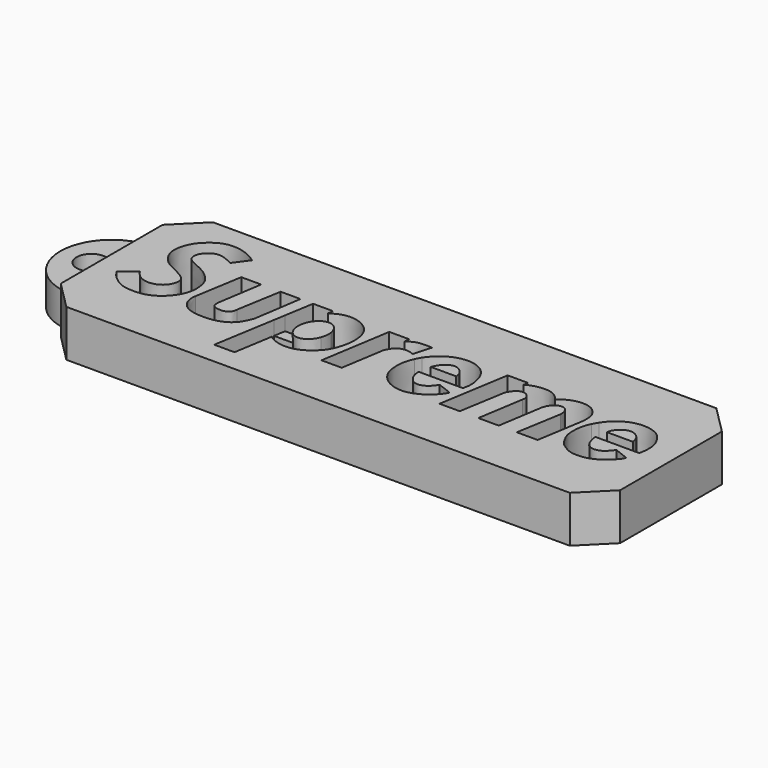
from build123d import *

# Parameters (mm, degrees)
F1_DEPTH = 5
F0_R     = 1.5875
F2_DEPTH = 3.5
F3_SIZE  = 3


with BuildPart() as f1:
    # F0 (on Top) → F1 (new body)
    with BuildSketch(Plane.XY):
        Polygon((30.01015342, 15.61703031), (-29.98984658, 15.61703031), (-29.98984658, 11.29203031), (-29.98984658, 0.29203031), (-29.98984658, -4.03296969), (30.01015342, -4.03296969), align=None)
        with BuildLine():
            Line((-19.7559818625, 4.2211241089), (-18.9126729965, 9.3238521367))
            Line((-18.9126729965, 9.3238521367), (-16.7780928314, 9.3238521367))
            Line((-16.7780928314, 9.3238521367), (-17.5221320242, 4.5804767869))
            add(Edge.make_bspline(
                [(-17.5221320242, 4.5804767869), (-17.5310005896, 4.4474616015), (-17.5490219684, 4.1771679367), (-17.4094162083, 3.6929434662), (-16.9054830373, 3.6216166248), (-16.3628218646, 3.5393000931), (-15.8559662748, 3.7293323109), (-15.5556535676, 4.0775659402), (-15.5231095178, 4.3743110873), (-15.5067695305, 4.5233033597)],
                knots=[0, 0, 0, 0, 0.1344949603, 0.273300643, 0.4154449369, 0.5722903555, 0.7232976915, 0.8610710027, 1, 1, 1, 1], degree=3))
            Line((-15.5067695305, 4.5233033597), (-14.6920476109, 9.3238521367))
            Line((-14.6920476109, 9.3238521367), (-12.5664239749, 9.3238521367))
            Line((-12.5664239749, 9.3238521367), (-13.3436731994, 4.1697453707))
            add(Edge.make_bspline(
                [(-19.7559818625, 4.2211241089), (-19.7889295298, 3.9617250882), (-19.8632317094, 3.3767394367), (-19.178476494, 2.1173110297), (-17.6955983041, 1.6876424853), (-15.883110609, 1.6972696746), (-14.5559279067, 2.2367010153), (-13.7930255492, 3.0260267128), (-13.4972530775, 3.7788446173), (-13.3436731994, 4.1697453707)],
                knots=[0, 0, 0, 0, 0.1142779606, 0.2577148021, 0.4119440645, 0.5823504416, 0.7312470887, 0.8604500306, 1, 1, 1, 1], degree=3))
        make_face(mode=Mode.SUBTRACT)
        with BuildLine():
            Line((-11.7218147786, 6.2031908892), (-11.2054096535, 9.3149580061))
            Line((-11.2054096535, 9.3149580061), (-9.065986611, 9.3149580061))
            Line((-9.065986611, 9.3149580061), (-9.1385124251, 8.7301135063))
            add(Edge.make_bspline(
                [(-9.1385124251, 8.7301135063), (-8.8236452775, 8.9304496696), (-8.1567491391, 9.3547664477), (-6.6866777159, 9.4900332895), (-5.2713454219, 8.8116125234), (-4.5204346162, 7.8159617592), (-4.3183804761, 6.8015895363), (-4.3321307749, 6.2031908892)],
                knots=[0, 0, 0, 0, 0.0871601103, 0.1846071953, 0.2848683373, 0.3738423687, 0.4776306039, 0.4776306039, 0.4776306039, 0.4776306039], degree=3))
            add(Edge.make_bspline(
                [(-4.3321307749, 6.2031908892), (-4.3413836178, 5.8005168239), (-4.4061257779, 5.3741900546), (-4.5094260219, 4.9719397925)],
                knots=[0.4776306039, 0.4776306039, 0.4776306039, 0.4776306039, 0.547471722, 0.547471722, 0.547471722, 0.547471722], degree=3))
            add(Edge.make_bspline(
                [(-4.5094260219, 4.9719397925), (-4.578854366, 4.7015864171), (-4.8562108266, 3.8729026465), (-5.5886153889, 2.8359847903), (-7.551868062, 1.5221736617), (-9.7054803711, 2.0589796048), (-10.0468899005, 2.4020709027), (-10.1664531976, 2.5222231634)],
                knots=[0.547471722, 0.547471722, 0.547471722, 0.547471722, 0.5944121066, 0.6973835086, 0.8202048138, 0.9370348411, 1, 1, 1, 1], degree=3))
            Line((-10.1664531976, 2.5222231634), (-10.850998573, -1.6598947113))
            Line((-10.850998573, -1.6598947113), (-13.0267124623, -1.6598947113))
            Line((-13.0267124623, -1.6598947113), (-11.926143815, 4.9719397925))
            Line((-11.926143815, 4.9719397925), (-11.7218147786, 6.2031908892))
        make_face(mode=Mode.SUBTRACT)
        with BuildLine():
            Line((-4.246388562, 1.7452507745), (-3.0366650317, 9.3174511567))
            Line((-3.0366650317, 9.3174511567), (-0.8939962136, 9.3174511567))
            Line((-0.8939962136, 9.3174511567), (-0.9469885263, 8.7815709412))
            add(Edge.make_bspline(
                [(-0.9469885263, 8.7815709412), (-0.6587005741, 8.9709471605), (-0.0193125335, 9.3909608588), (0.9984306003, 9.3504412574), (1.5572926429, 9.3281911729)],
                knots=[0, 0, 0, 0, 0.450881052, 1, 1, 1, 1], degree=3))
            Line((1.5572926429, 9.3281911729), (1.0044078742, 7.4051138987))
            add(Edge.make_bspline(
                [(-1.3337034034, 6.4028999768), (-1.199541322, 6.7075380208), (-0.9288259321, 7.3222438025), (0.1264507287, 7.7499450537), (0.7167563472, 7.5180934557), (1.0044078742, 7.4051138987)],
                knots=[0, 0, 0, 0, 0.3349866791, 0.6759439697, 1, 1, 1, 1], degree=3))
            Line((-1.3337034034, 6.4028999768), (-2.0737985615, 1.7452507745))
            Line((-2.0737985615, 1.7452507745), (-4.246388562, 1.7452507745))
        make_face(mode=Mode.SUBTRACT)
        with BuildLine():
            add(Edge.make_bspline(
                [(1.7034924822, 6.7907180637), (1.5505594609, 6.4542956353), (1.2818548268, 5.7069911533), (1.2631676732, 4.5386014627), (1.488966943, 3.3664040492), (2.2143774175, 2.4399969182), (3.14057677, 1.822994674), (4.5113398224, 1.5392180628), (5.7151325752, 1.9007362845), (6.7741345581, 2.4913511368), (7.6186552962, 3.4782363972), (7.7436194599, 3.7723184303), (7.7888928354, 3.8788616657)],
                knots=[0.4936803865, 0.4936803865, 0.4936803865, 0.4936803865, 0.5453329856, 0.5974392326, 0.649673931, 0.7009975118, 0.7516486796, 0.8077064771, 0.8611224147, 0.9151057234, 0.9692435787, 1, 1, 1, 1], degree=3))
            add(Edge.make_bspline(
                [(2.0340674977, 7.4051138987), (1.9103564459, 7.2129378872), (1.8028769892, 7.0093443414), (1.7034924822, 6.7907180637)],
                knots=[0.460113613, 0.460113613, 0.460113613, 0.460113613, 0.4936803865, 0.4936803865, 0.4936803865, 0.4936803865], degree=3))
            add(Edge.make_bspline(
                [(8.0737392106, 7.4051138987), (8.0027895058, 7.633177258), (7.7859014039, 8.1488731519), (7.112078445, 8.8809556902), (6.2046090052, 9.2898407369), (5.145449992, 9.4142437356), (3.8251847183, 9.0791156656), (2.9101472975, 8.4192654053), (2.3351097975, 7.8426919507), (2.0877432469, 7.4884952235), (2.0340674977, 7.4051138987)],
                knots=[0.108541767, 0.108541767, 0.108541767, 0.108541767, 0.1430419216, 0.1925664303, 0.240094957, 0.2895677079, 0.3453156833, 0.3966102298, 0.4455496618, 0.460113613, 0.460113613, 0.460113613, 0.460113613], degree=3))
            add(Edge.make_bspline(
                [(8.2224255401, 6.7907180637), (8.2013997857, 6.9062264407), (8.1553628662, 7.1182158715), (8.1013775771, 7.3162721096), (8.0737392106, 7.4051138987)],
                knots=[0.0793934975, 0.0793934975, 0.0793934975, 0.0793934975, 0.0951022761, 0.108541767, 0.108541767, 0.108541767, 0.108541767], degree=3))
            add(Edge.make_bspline(
                [(8.1494702026, 5.2009769715), (8.2150451349, 5.4627924757), (8.3329471294, 5.9335298305), (8.2695883102, 6.5316217708), (8.2224255401, 6.7907180637)],
                knots=[0, 0, 0, 0, 0.0441572107, 0.0793934975, 0.0793934975, 0.0793934975, 0.0793934975], degree=3))
            Line((8.1494702026, 5.2009769715), (3.4259120002, 5.2009769715))
            add(Edge.make_bspline(
                [(6.2504312955, 4.4678039849), (6.186897844, 4.3535234123), (6.034007923, 4.078513204), (5.4278956061, 3.4531812799), (4.4533826607, 3.2802800834), (3.8143995868, 3.8450217274), (3.4258927645, 4.5871637723), (3.4259059336, 5.0073890957), (3.4259120002, 5.2009769715)],
                knots=[0, 0, 0, 0, 0.1286160508, 0.3095077853, 0.4960220718, 0.6707688534, 0.8483309911, 1, 1, 1, 1], degree=3))
            Line((6.2504312955, 4.4678039849), (7.7888928354, 3.8788616657))
        make_face(mode=Mode.SUBTRACT)
        with BuildLine():
            Line((8.3989575505, 1.7699922901), (9.6397940069, 9.3509936705))
            Line((9.6397940069, 9.3509936705), (11.8325054646, 9.3509936705))
            Line((11.8325054646, 9.3509936705), (11.7491645184, 8.8511627697))
            add(Edge.make_bspline(
                [(11.7491645184, 8.8511627697), (11.9127645764, 8.9485915396), (12.2978049063, 9.1778946715), (13.4080398698, 9.4023060826), (14.4959329891, 9.3288756759), (15.1511056428, 8.826367526), (15.3479677066, 8.5457867446), (15.4344663024, 8.4225032479)],
                knots=[0, 0, 0, 0, 0.1756360393, 0.4133675705, 0.6476570471, 0.8451851511, 1, 1, 1, 1], degree=3))
            add(Edge.make_bspline(
                [(15.4344663024, 8.4225032479), (15.6672242716, 8.6010376163), (16.1827727931, 8.9964832803), (17.4719077097, 9.4727070493), (18.7897887717, 9.2040809904), (19.2712005277, 8.6815915751), (19.7287034972, 8.1312674251), (19.7698817705, 7.0965753583), (19.7333274949, 6.8208804167), (19.719466567, 6.7163403146)],
                knots=[0, 0, 0, 0, 0.1473033446, 0.3262703389, 0.4992878411, 0.6246494733, 0.7531040491, 0.906380118, 1, 1, 1, 1], degree=3))
            Line((19.719466567, 6.7163403146), (18.920570612, 1.7699922901))
            Line((18.920570612, 1.7699922901), (16.6876558214, 1.7699922901))
            Line((16.6876558214, 1.7699922901), (17.5035484135, 6.601491943))
            add(Edge.make_bspline(
                [(15.5148105696, 6.601491943), (15.5853057501, 6.8150317809), (15.7265010049, 7.2427321088), (16.2558337604, 7.7048753928), (16.7875789773, 7.8421359247), (17.282927155, 7.578430369), (17.5106568155, 7.0682410257), (17.5058615504, 6.7533762252), (17.5035484135, 6.601491943)],
                knots=[0, 0, 0, 0, 0.1827609382, 0.3660530699, 0.5260288694, 0.6853766329, 0.8482321803, 1, 1, 1, 1], degree=3))
            Line((15.5148105696, 6.601491943), (14.7499116138, 1.7699922901))
            Line((14.7499116138, 1.7699922901), (12.5572001562, 1.7699922901))
            Line((12.5572001562, 1.7699922901), (13.3390966803, 6.6864807159))
            add(Edge.make_bspline(
                [(11.4115948818, 6.8266148922), (11.5231545963, 7.0264098982), (11.7488471526, 7.4306082156), (12.3928590959, 7.9045539727), (13.1132622787, 7.6607760307), (13.4277400212, 7.0927763155), (13.3665574446, 6.812346772), (13.3390966803, 6.6864807159)],
                knots=[0, 0, 0, 0, 0.2133760371, 0.4316736191, 0.64191873, 0.8392812801, 1, 1, 1, 1], degree=3))
            Line((11.4115948818, 6.8266148922), (10.5684623122, 1.7699922901))
            Line((10.5684623122, 1.7699922901), (8.3989575505, 1.7699922901))
        make_face(mode=Mode.SUBTRACT)
        with BuildLine():
            add(Edge.make_bspline(
                [(20.6445462301, 6.8662342604), (20.5985711468, 6.7736465224), (20.4061712563, 6.3513861303), (20.1939765286, 5.5420740881), (20.2137813272, 4.3472844138), (20.3751618107, 3.7145272156), (20.8973862161, 2.7501853153), (21.3438735332, 2.3395954807), (21.8690160662, 2.0194283352), (22.4539511755, 1.7076012208), (23.4768356052, 1.6561297784), (24.2760626365, 1.7926974265), (25.3228185961, 2.2587346629), (26.1216312771, 2.9884991199), (26.6852252117, 3.6146842158), (26.7082256851, 3.8122221784), (26.7163328826, 3.8818502799)],
                knots=[0.4664955147, 0.4664955147, 0.4664955147, 0.4664955147, 0.4798652019, 0.5264324677, 0.5739325646, 0.6104351529, 0.6559360719, 0.6907060009, 0.724571033, 0.7606148348, 0.8046610523, 0.8449351451, 0.8916442254, 0.9389469946, 0.9784800613, 1, 1, 1, 1], degree=3))
            add(Edge.make_bspline(
                [(20.9698969655, 7.4285456107), (20.8517758154, 7.2491395781), (20.7413785761, 7.0612417998), (20.6445462301, 6.8662342604)],
                knots=[0.4383363883, 0.4383363883, 0.4383363883, 0.4383363883, 0.4664955147, 0.4664955147, 0.4664955147, 0.4664955147], degree=3))
            add(Edge.make_bspline(
                [(26.9993763638, 7.4285456107), (26.9160327124, 7.6496342534), (26.6445461182, 8.1846512582), (26.0746641947, 8.8784103404), (25.1692522272, 9.2452128601), (24.4553380396, 9.3512179328), (23.565378676, 9.3215422676), (22.5566616052, 8.9851670502), (21.6335718425, 8.3112767616), (21.1896892039, 7.7578308558), (20.9853649964, 7.4520389315), (20.9698969655, 7.4285456107)],
                knots=[0.1014490789, 0.1014490789, 0.1014490789, 0.1014490789, 0.1312439525, 0.1758023116, 0.2186645798, 0.2561531575, 0.2973664203, 0.342971046, 0.390040698, 0.4346489349, 0.4383363883, 0.4383363883, 0.4383363883, 0.4383363883], degree=3))
            add(Edge.make_bspline(
                [(27.1489400325, 6.8662342604), (27.1391751358, 6.9293545133), (27.1033946208, 7.1182408163), (27.0456585418, 7.3057712454), (26.9993763638, 7.4285456107)],
                knots=[0.0765946919, 0.0765946919, 0.0765946919, 0.0765946919, 0.0849034678, 0.1014490789, 0.1014490789, 0.1014490789, 0.1014490789], degree=3))
            add(Edge.make_bspline(
                [(27.0562898368, 5.2246735431), (27.1041015718, 5.4989180444), (27.1938188376, 6.0135295058), (27.1909860238, 6.5944491401), (27.1489400325, 6.8662342604)],
                knots=[0, 0, 0, 0, 0.04081851, 0.0765946919, 0.0765946919, 0.0765946919, 0.0765946919], degree=3))
            Line((27.0562898368, 5.2246735431), (22.3479103297, 5.2246735431))
            add(Edge.make_bspline(
                [(25.186534971, 4.4937697239), (25.1378269922, 4.4080823484), (25.0202646452, 4.2012659452), (24.5725789454, 3.7074855614), (24.0341759469, 3.416017966), (23.3370059486, 3.3848626214), (22.8410762511, 3.7345335458), (22.5624611707, 4.195552809), (22.3755686882, 4.887387905), (22.3558958022, 5.127293028), (22.3479103297, 5.2246735431)],
                knots=[0, 0, 0, 0, 0.0970868695, 0.234330402, 0.3681686393, 0.5059854586, 0.6337523361, 0.759460516, 0.9023619898, 1, 1, 1, 1], degree=3))
            Line((25.186534971, 4.4937697239), (26.7163328826, 3.8818502799))
        make_face(mode=Mode.SUBTRACT)
        with BuildLine():
            add(Edge.make_bspline(
                [(-20.1288741082, 12.2741376981), (-20.3155235527, 12.4157462809), (-20.7593109954, 12.7524422242), (-22.1262852555, 13.2953519622), (-23.830920781, 13.339663518), (-25.2443095164, 12.3296347728), (-25.976410677, 11.4062811323), (-26.3526046028, 10.383981556), (-26.4719419471, 9.2347927609), (-25.9063762829, 8.1311746159), (-25.1613019724, 7.3646069306), (-23.7978081507, 6.7808741688), (-23.1278109673, 6.4023230867), (-22.4110821668, 5.7919802889), (-22.5978397351, 4.7521971925), (-23.3052437589, 3.8928663704), (-24.5998215242, 3.6019272555), (-25.6448369385, 4.0674299742), (-26.0256349484, 4.5913601909), (-26.2094289064, 4.8442375846)],
                knots=[0, 0, 0, 0, 0.0481952472, 0.1145915304, 0.186219432, 0.2575827109, 0.3172609731, 0.374152367, 0.4327454899, 0.4927066286, 0.550336592, 0.6167304227, 0.6663721172, 0.71654373, 0.7700167132, 0.827327292, 0.8889751232, 0.9464133188, 1, 1, 1, 1], degree=3))
            Line((-20.1288741082, 12.2741376981), (-21.2437547743, 10.7590416446))
            add(Edge.make_bspline(
                [(-27.7030840516, 3.6150088999), (-27.5957944092, 3.4364554271), (-27.3516603253, 3.03016282), (-26.535585179, 2.2838479735), (-25.5154884805, 1.7388406456), (-24.0640547517, 1.6854572643), (-22.7851418318, 1.9122187485), (-21.4010416374, 2.8802471789), (-20.4112545392, 4.6042302008), (-20.5944856079, 6.480727217), (-21.1416073285, 7.336595998), (-21.9420032471, 8.0801688286), (-22.9271420324, 8.5676523017), (-23.8868032187, 8.9619880276), (-24.3678678713, 9.3809738911), (-24.4648957793, 10.0984159203), (-24.0388810915, 10.8459790668), (-23.0995508891, 11.4475016512), (-22.1234601908, 11.1890009206), (-21.5387847587, 10.9032386407), (-21.2437547743, 10.7590416446)],
                knots=[0, 0, 0, 0, 0.043299692, 0.0985270376, 0.1556857671, 0.2187463557, 0.2789233137, 0.3465822865, 0.4208391638, 0.4917528485, 0.5445307511, 0.5990233222, 0.6554077536, 0.7093524299, 0.7502772854, 0.7928466362, 0.8413265155, 0.895428722, 0.9472328392, 1, 1, 1, 1], degree=3))
            Line((-27.7030840516, 3.6150088999), (-26.2094289064, 4.8442375846))
        make_face(mode=Mode.SUBTRACT)
    extrude(amount=F1_DEPTH)



with BuildPart() as f1b:
    # F0 (on Top) → F1, piece 2 (new body)
    with BuildSketch(Plane.XY):
        with BuildLine():
            add(Edge.make_bspline(
                [(-7.7936695889, 7.4531906284), (-8.9939919351, 7.7181970019), (-9.5283404541, 6.2031908892)],
                knots=[0, 0, 0, 1.4113500012, 1.4113500012, 1.4113500012], degree=2, weights=[1, 0.7611739551, 1]))
            add(Edge.make_bspline(
                [(-9.5283404541, 6.2031908892), (-9.7460975036, 5.5857974667), (-9.6316626768, 4.9719397925)],
                knots=[1.4113500012, 1.4113500012, 1.4113500012, 2.0797434524, 2.0797434524, 2.0797434524], degree=2, weights=[1, 0.9446740968, 1]))
            add(Edge.make_bspline(
                [(-9.6316626768, 4.9719397925), (-8.7072311203, 0.0130525298), (-6.8868611109, 4.9719397925)],
                knots=[2.0797434524, 2.0797434524, 2.0797434524, 4.5364021356, 4.5364021356, 4.5364021356], degree=2, weights=[1, 0.3358118368, 1]))
            add(Edge.make_bspline(
                [(-6.8868611109, 4.9719397925), (-6.6615186013, 5.5857974667), (-6.7677291528, 6.2031908892)],
                knots=[4.5364021356, 4.5364021356, 4.5364021356, 5.2047955867, 5.2047955867, 5.2047955867], degree=2, weights=[1, 0.9446740968, 1]))
            add(Edge.make_bspline(
                [(-6.7677291528, 6.2031908892), (-6.9507526816, 7.2670919913), (-7.7936695889, 7.4531906284)],
                knots=[5.2047955867, 5.2047955867, 5.2047955867, 6.2831853072, 6.2831853072, 6.2831853072], degree=2, weights=[1, 0.8581223547, 1]))
        make_face()
    extrude(amount=F1_DEPTH)


with BuildPart() as f1c:
    # F0 (on Top) → F1, piece 3 (new body)
    with BuildSketch(Plane.XY):
        with BuildLine():
            add(Edge.make_bspline(
                [(3.6422582343, 6.523092743), (3.683242236, 6.6126168678), (3.7242262372, 6.7021409929), (3.768045577, 6.7907180637)],
                knots=[0, 0, 0, 0, 0.0738489842, 0.0738489842, 0.0738489842, 0.0738489842], degree=3))
            Line((3.6422582343, 6.523092743), (6.3826427795, 6.523092743))
            add(Edge.make_bspline(
                [(6.3460259962, 6.7907180637), (6.3636917038, 6.7005883901), (6.3731672417, 6.6118405665), (6.3826427795, 6.523092743)],
                knots=[0.9146482939, 0.9146482939, 0.9146482939, 0.9146482939, 1, 1, 1, 1], degree=3))
            add(Edge.make_bspline(
                [(6.0385133522, 7.4051138987), (6.1005107549, 7.3339234055), (6.2572747418, 7.1187262373), (6.3208323606, 6.919254899), (6.3460259962, 6.7907180637)],
                knots=[0.7297932471, 0.7297932471, 0.7297932471, 0.7297932471, 0.7929254722, 0.9146482939, 0.9146482939, 0.9146482939, 0.9146482939], degree=3))
            add(Edge.make_bspline(
                [(4.1774851204, 7.4051138987), (4.4474651583, 7.69017062), (5.1549228807, 8.120248687), (5.8339431619, 7.6400181387), (6.0385133522, 7.4051138987)],
                knots=[0.2529989943, 0.2529989943, 0.2529989943, 0.2529989943, 0.5214785313, 0.7297932471, 0.7297932471, 0.7297932471, 0.7297932471], degree=3))
            add(Edge.make_bspline(
                [(3.768045577, 6.7907180637), (3.8743467707, 7.0055968911), (3.9973338617, 7.2149023278), (4.1774851204, 7.4051138987)],
                knots=[0.0738489842, 0.0738489842, 0.0738489842, 0.0738489842, 0.2529989943, 0.2529989943, 0.2529989943, 0.2529989943], degree=3))
        make_face()
    extrude(amount=F1_DEPTH)


with BuildPart() as f1d:
    # F0 (on Top) → F1, piece 4 (new body)
    with BuildSketch(Plane.XY):
        with BuildLine():
            add(Edge.make_bspline(
                [(22.6572356279, 6.8662342604), (22.6077222618, 6.7360901023), (22.5968002052, 6.617797852), (22.5858781487, 6.4995056018)],
                knots=[0.8759242532, 0.8759242532, 0.8759242532, 0.8759242532, 1, 1, 1, 1], degree=3))
            Line((22.5858781487, 6.4995056018), (25.3395158798, 6.4995056018))
            add(Edge.make_bspline(
                [(25.3395158798, 6.4995056018), (25.3170932339, 6.6228926805), (25.2946705881, 6.7462797591), (25.2625916444, 6.8662342604)],
                knots=[0, 0, 0, 0, 0.0871080019, 0.0871080019, 0.0871080019, 0.0871080019], degree=3))
            add(Edge.make_bspline(
                [(25.2625916444, 6.8662342604), (25.2183452293, 7.0316872354), (25.1415901351, 7.2264920076), (24.9991595654, 7.3979507573), (24.9710099929, 7.4285456107)],
                knots=[0.0871080019, 0.0871080019, 0.0871080019, 0.0871080019, 0.2072558737, 0.2343833105, 0.2343833105, 0.2343833105, 0.2343833105], degree=3))
            add(Edge.make_bspline(
                [(24.9710099929, 7.4285456107), (24.7687347156, 7.6483920213), (24.1501191452, 7.9953231146), (23.5046879677, 7.7897336552), (23.155101991, 7.5086801865), (23.069560533, 7.4285456107)],
                knots=[0.2343833105, 0.2343833105, 0.2343833105, 0.2343833105, 0.4293137949, 0.6348307569, 0.7089969783, 0.7089969783, 0.7089969783, 0.7089969783], degree=3))
            add(Edge.make_bspline(
                [(23.069560533, 7.4285456107), (22.9068989896, 7.2761655357), (22.7450196586, 7.0718166433), (22.6675697572, 6.8933971594), (22.6572356279, 6.8662342604)],
                knots=[0.7089969783, 0.7089969783, 0.7089969783, 0.7089969783, 0.8500279162, 0.8759242532, 0.8759242532, 0.8759242532, 0.8759242532], degree=3))
        make_face()
    extrude(amount=F1_DEPTH)


with BuildPart() as f1_1:
    add(f1.part)

    add(f1b.part)  # F2 merges F1b

    add(f1c.part)  # F2 merges F1c

    add(f1d.part)  # F2 merges F1d
    # F0 (on Top) → F2 (join)
    with BuildSketch(Plane.XY):
        with BuildLine():
            Line((-29.98984658, 0.29203031), (-29.98984658, 11.29203031))
            ThreePointArc((-29.98984658, 11.29203031), (-35.48984658, 5.79203031), (-29.98984658, 0.29203031))
        make_face()
        with Locations((-32.1672670543, 5.79203031)):
            Circle(F0_R, mode=Mode.SUBTRACT)
        with BuildLine():
            Line((-9.5283404541, 6.2031908892), (-11.7218147786, 6.2031908892))
            Line((-11.7218147786, 6.2031908892), (-11.926143815, 4.9719397925))
            Line((-11.926143815, 4.9719397925), (-9.6316626768, 4.9719397925))
            add(Edge.make_bspline(
                [(-9.5283404541, 6.2031908892), (-9.7460975036, 5.5857974667), (-9.6316626768, 4.9719397925)],
                knots=[1.4113500012, 1.4113500012, 1.4113500012, 2.0797434524, 2.0797434524, 2.0797434524], degree=2, weights=[1, 0.9446740968, 1]))
        make_face()
        with BuildLine():
            add(Edge.make_bspline(
                [(-4.3321307749, 6.2031908892), (-4.3413836178, 5.8005168239), (-4.4061257779, 5.3741900546), (-4.5094260219, 4.9719397925)],
                knots=[0.4776306039, 0.4776306039, 0.4776306039, 0.4776306039, 0.547471722, 0.547471722, 0.547471722, 0.547471722], degree=3))
            Line((-4.3321307749, 6.2031908892), (-6.7677291528, 6.2031908892))
            add(Edge.make_bspline(
                [(-6.8868611109, 4.9719397925), (-6.6615186013, 5.5857974667), (-6.7677291528, 6.2031908892)],
                knots=[4.5364021356, 4.5364021356, 4.5364021356, 5.2047955867, 5.2047955867, 5.2047955867], degree=2, weights=[1, 0.9446740968, 1]))
            Line((-6.8868611109, 4.9719397925), (-4.5094260219, 4.9719397925))
        make_face()
        with BuildLine():
            Line((1.7034924822, 6.7907180637), (3.768045577, 6.7907180637))
            add(Edge.make_bspline(
                [(3.768045577, 6.7907180637), (3.8743467707, 7.0055968911), (3.9973338617, 7.2149023278), (4.1774851204, 7.4051138987)],
                knots=[0.0738489842, 0.0738489842, 0.0738489842, 0.0738489842, 0.2529989943, 0.2529989943, 0.2529989943, 0.2529989943], degree=3))
            Line((4.1774851204, 7.4051138987), (2.0340674977, 7.4051138987))
            add(Edge.make_bspline(
                [(2.0340674977, 7.4051138987), (1.9103564459, 7.2129378872), (1.8028769892, 7.0093443414), (1.7034924822, 6.7907180637)],
                knots=[0.460113613, 0.460113613, 0.460113613, 0.460113613, 0.4936803865, 0.4936803865, 0.4936803865, 0.4936803865], degree=3))
        make_face()
        with BuildLine():
            add(Edge.make_bspline(
                [(6.0385133522, 7.4051138987), (6.1005107549, 7.3339234055), (6.2572747418, 7.1187262373), (6.3208323606, 6.919254899), (6.3460259962, 6.7907180637)],
                knots=[0.7297932471, 0.7297932471, 0.7297932471, 0.7297932471, 0.7929254722, 0.9146482939, 0.9146482939, 0.9146482939, 0.9146482939], degree=3))
            Line((6.3460259962, 6.7907180637), (8.2224255401, 6.7907180637))
            add(Edge.make_bspline(
                [(8.2224255401, 6.7907180637), (8.2013997857, 6.9062264407), (8.1553628662, 7.1182158715), (8.1013775771, 7.3162721096), (8.0737392106, 7.4051138987)],
                knots=[0.0793934975, 0.0793934975, 0.0793934975, 0.0793934975, 0.0951022761, 0.108541767, 0.108541767, 0.108541767, 0.108541767], degree=3))
            Line((8.0737392106, 7.4051138987), (6.0385133522, 7.4051138987))
        make_face()
        with BuildLine():
            Line((20.6445462301, 6.8662342604), (22.6572356279, 6.8662342604))
            add(Edge.make_bspline(
                [(23.069560533, 7.4285456107), (22.9068989896, 7.2761655357), (22.7450196586, 7.0718166433), (22.6675697572, 6.8933971594), (22.6572356279, 6.8662342604)],
                knots=[0.7089969783, 0.7089969783, 0.7089969783, 0.7089969783, 0.8500279162, 0.8759242532, 0.8759242532, 0.8759242532, 0.8759242532], degree=3))
            Line((23.069560533, 7.4285456107), (20.9698969655, 7.4285456107))
            add(Edge.make_bspline(
                [(20.9698969655, 7.4285456107), (20.8517758154, 7.2491395781), (20.7413785761, 7.0612417998), (20.6445462301, 6.8662342604)],
                knots=[0.4383363883, 0.4383363883, 0.4383363883, 0.4383363883, 0.4664955147, 0.4664955147, 0.4664955147, 0.4664955147], degree=3))
        make_face()
        with BuildLine():
            add(Edge.make_bspline(
                [(25.2625916444, 6.8662342604), (25.2183452293, 7.0316872354), (25.1415901351, 7.2264920076), (24.9991595654, 7.3979507573), (24.9710099929, 7.4285456107)],
                knots=[0.0871080019, 0.0871080019, 0.0871080019, 0.0871080019, 0.2072558737, 0.2343833105, 0.2343833105, 0.2343833105, 0.2343833105], degree=3))
            Line((25.2625916444, 6.8662342604), (27.1489400325, 6.8662342604))
            add(Edge.make_bspline(
                [(27.1489400325, 6.8662342604), (27.1391751358, 6.9293545133), (27.1033946208, 7.1182408163), (27.0456585418, 7.3057712454), (26.9993763638, 7.4285456107)],
                knots=[0.0765946919, 0.0765946919, 0.0765946919, 0.0765946919, 0.0849034678, 0.1014490789, 0.1014490789, 0.1014490789, 0.1014490789], degree=3))
            Line((26.9993763638, 7.4285456107), (24.9710099929, 7.4285456107))
        make_face()
    extrude(amount=F2_DEPTH)

    # F3
    f3_edges = [f1_1.edges().sort_by_distance(p)[0] for p in [
        (-29.989847, -4.03297, 2.5),
        (30.010153, -4.03297, 2.5),
        (30.010153, 15.61703, 2.5),
        (-29.989847, 15.61703, 2.5),
    ]]
    chamfer(f3_edges, length=F3_SIZE)


solid = f1_1.part
